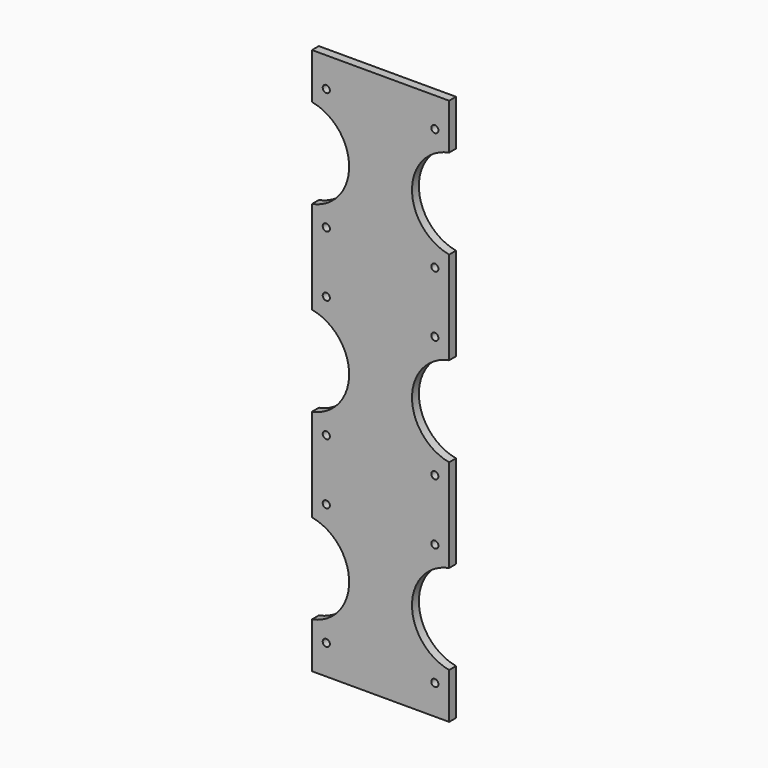
from build123d import *

# Parameters (mm, degrees)
F1_R     = 2.5
F2_DEPTH = 6


with BuildPart() as f2:
    # F1 (on Front) → F2 (new body)
    with BuildSketch(Plane.XZ):
        with BuildLine():
            ThreePointArc((-48, -96.567533), (-22, -128), (-48, -159.432467))
            Line((-48, -159.432467), (-48, -191.432467))
            Line((-48, -191.432467), (48, -191.432467))
            Line((48, -191.432467), (48, -159.432467))
            ThreePointArc((48, -159.432467), (22, -128), (48, -96.567533))
            Line((48, -96.567533), (48, -31.432467))
            ThreePointArc((48, -31.432467), (22, 0), (48, 31.432467))
            Line((48, 31.432467), (48, 96.567533))
            ThreePointArc((48, 96.567533), (22, 128), (48, 159.432467))
            Line((48, 159.432467), (48, 191.432467))
            Line((48, 191.432467), (-48, 191.432467))
            Line((-48, 191.432467), (-48, 159.432467))
            ThreePointArc((-48, 159.432467), (-22, 128), (-48, 96.567533))
            Line((-48, 96.567533), (-48, 31.432467))
            ThreePointArc((-48, 31.432467), (-22, 0), (-48, -31.432467))
            Line((-48, -31.432467), (-48, -96.567533))
        make_face()
        with Locations((-38, -170.666667)):
            Circle(F1_R, mode=Mode.SUBTRACT)
        with Locations((-38, -85.333333)):
            Circle(F1_R, mode=Mode.SUBTRACT)
        with Locations((-38, -42.666667)):
            Circle(F1_R, mode=Mode.SUBTRACT)
        with Locations((38, -170.666667)):
            Circle(F1_R, mode=Mode.SUBTRACT)
        with Locations((38, -85.333333)):
            Circle(F1_R, mode=Mode.SUBTRACT)
        with Locations((38, -42.666667)):
            Circle(F1_R, mode=Mode.SUBTRACT)
        with Locations((-38, 42.666667)):
            Circle(F1_R, mode=Mode.SUBTRACT)
        with Locations((-38, 85.333333)):
            Circle(F1_R, mode=Mode.SUBTRACT)
        with Locations((-38, 170.666667)):
            Circle(F1_R, mode=Mode.SUBTRACT)
        with Locations((38, 42.666667)):
            Circle(F1_R, mode=Mode.SUBTRACT)
        with Locations((38, 85.333333)):
            Circle(F1_R, mode=Mode.SUBTRACT)
        with Locations((38, 170.666667)):
            Circle(F1_R, mode=Mode.SUBTRACT)
    extrude(amount=F2_DEPTH)


solid = f2.part
